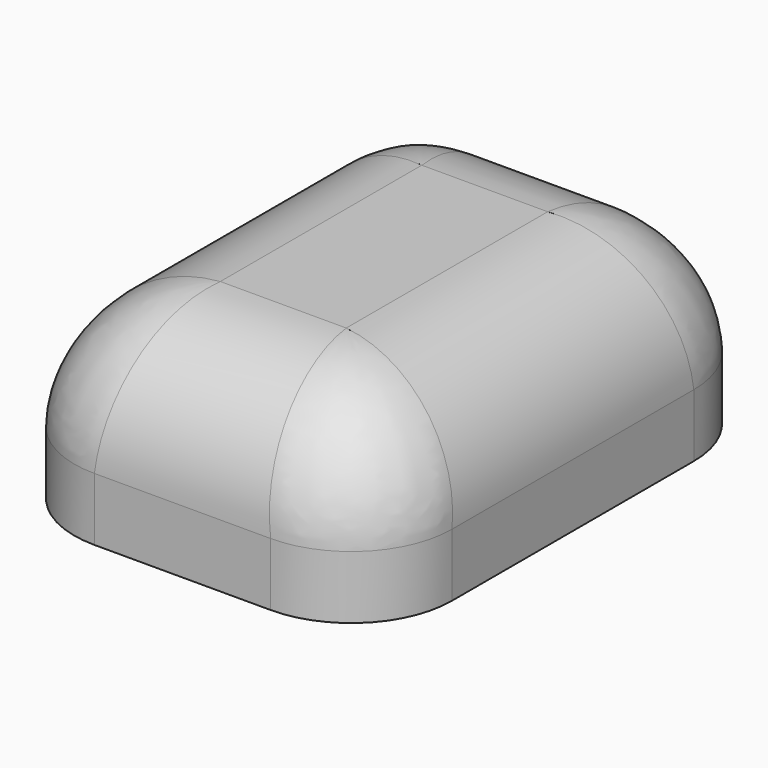
from build123d import *

# Parameters (mm, degrees)
SKETCH_W     = 30
SKETCH_H     = 40
PAD_DEPTH    = 15
SKETCH001_R  = 10
POCKET_DEPTH = 12
FILLET_R     = 2
FILLET001_R  = 8
FILLET002_R  = 10


with BuildPart() as part:
    # Sketch → Pad (new body)
    with BuildSketch(Plane.XY):
        Rectangle(SKETCH_W, SKETCH_H)
    extrude(amount=PAD_DEPTH)

    # Sketch001 (on Face5 of Pad) → Pocket (cut)
    with BuildSketch(Plane(origin=(0, 0, 0), x_dir=(1, 0, 0), z_dir=(0, 0, -1))):
        Circle(SKETCH001_R)
    extrude(amount=-POCKET_DEPTH, mode=Mode.SUBTRACT)

    # Fillet
    fillet_edges = [part.edges().sort_by_distance(p)[0] for p in [
        (-10, 0, 12),
    ]]
    fillet(fillet_edges, radius=FILLET_R)

    # Fillet001
    fillet001_edges = [part.edges().sort_by_distance(p)[0] for p in [
        (-15, 20, 7.5),
        (-15, -20, 7.5),
        (15, -20, 7.5),
        (15, 20, 7.5),
    ]]
    fillet(fillet001_edges, radius=FILLET001_R)

    # Fillet002
    fillet002_edges = [part.edges().sort_by_distance(p)[0] for p in [
        (0, 20, 15),
        (12.656854, 17.656854, 15),
        (-12.656854, 17.656854, 15),
        (15, 0, 15),
        (-15, 0, 15),
        (12.656854, -17.656854, 15),
        (-12.656854, -17.656854, 15),
        (0, -20, 15),
    ]]
    fillet(fillet002_edges, radius=FILLET002_R)


solid = part.part
